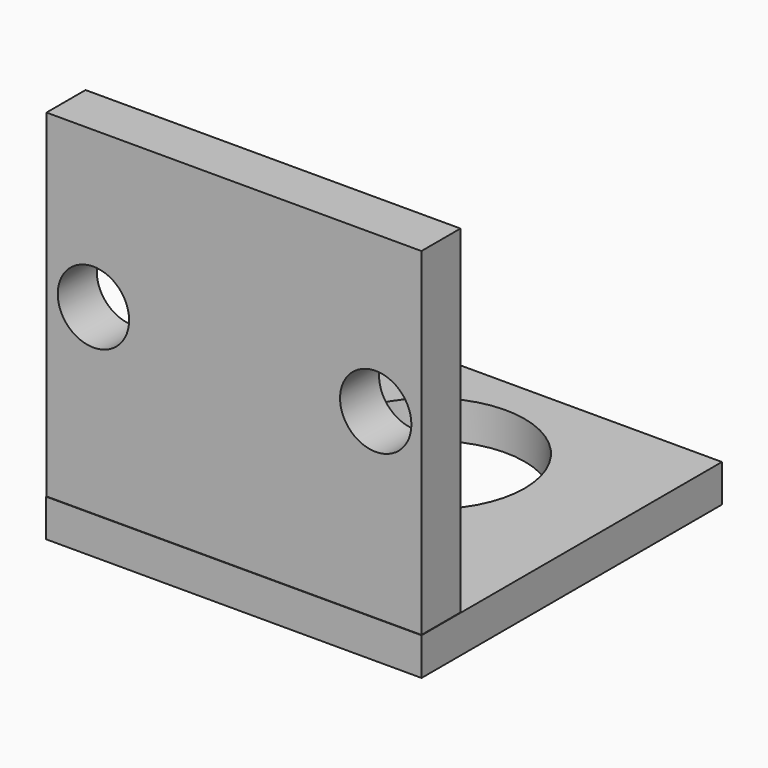
from build123d import *

# Parameters (mm, degrees)
F0_W          = 25.4
F0_H          = 25.4
F1_DEPTH      = 2.54
F2_R          = 6.3627
F3_DEPTH      = 25.4
F3_DEPTH_BACK = 25.4
F4_W          = 25.3639966249
F4_H          = 3.2993815839
F5_DEPTH      = 25.4
F6_R          = 2.4136408641
F7_DEPTH      = 52.07


with BuildPart() as f1:
    # F0 (on Top) → F1 (new body)
    with BuildSketch(Plane.XY):
        with Locations((12.7, -12.7)):
            Rectangle(F0_W, F0_H)
    extrude(amount=F1_DEPTH)

    # F2 (on Top) → F3 (cut, two sides)
    with BuildSketch(Plane.XY) as f3_sk:
        with Locations((12.7851041034, -8.867087774)):
            Circle(F2_R)
    extrude(amount=-F3_DEPTH, mode=Mode.SUBTRACT)
    extrude(f3_sk.sketch, amount=F3_DEPTH_BACK, mode=Mode.SUBTRACT)

    # F4 (on Top) → F5 (join)
    with BuildSketch(Plane.XY):
        with Locations((12.6819983125, -23.7143039703)):
            Rectangle(F4_W, F4_H)
    extrude(amount=F5_DEPTH)

    # F6 (on Front) → F7 (cut)
    with BuildSketch(Plane.XZ):
        with Locations((22.2708247602, 14.8472161964)):
            Circle(F6_R)
        with Locations((3.1737023965, 14.8472161964)):
            Circle(F6_R)
    extrude(amount=F7_DEPTH, mode=Mode.SUBTRACT)


solid = f1.part
